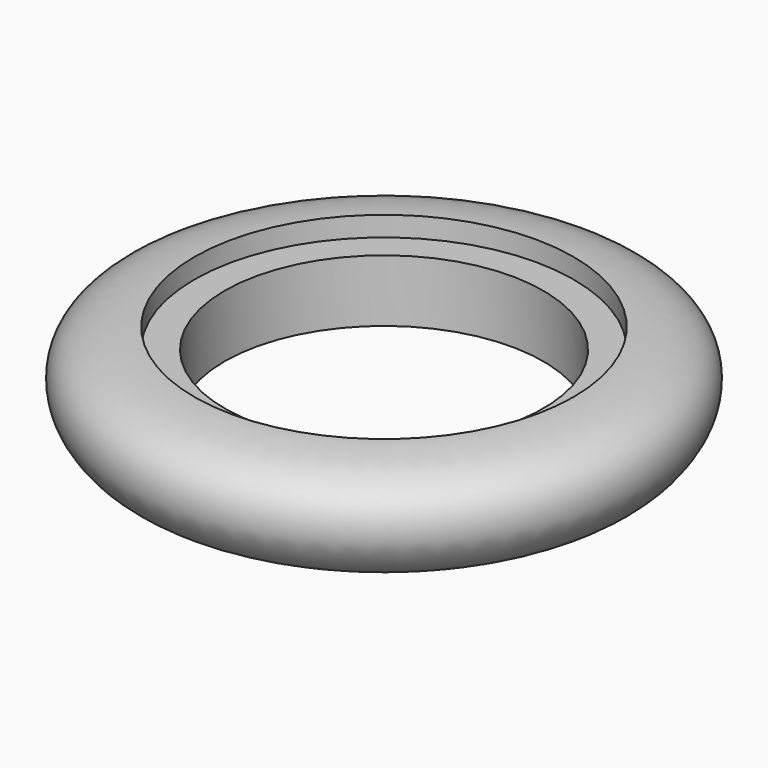
from build123d import *


with BuildPart() as f2:
    # F1 (on Front) → F2 (revolve)
    with BuildSketch(Plane.XZ):
        with BuildLine():
            Line((-50.8, 26.162), (-60.452, 26.162))
            Line((-60.452, 26.162), (-60.452, 32.512))
            add(Edge.make_bspline(
                [(-60.452, 32.512), (-64.1589996185, 32.6607128687), (-76.0509938427, 31.3255448455), (-84.2125294202, 24.0408724834), (-84.4160828114, 14.3979644967), (-80.9184533009, 7.8210827122), (-75.929038505, 2.7465876009), (-70.1350190249, 0), (-63.5, 0)],
                knots=[0, 0, 0, 0, 0.205674625, 0.3759024732, 0.5322220825, 0.6745215015, 0.8080592056, 1, 1, 1, 1], degree=3))
            Line((-63.5, 0), (-63.5, 6.35))
            Line((-63.5, 6.35), (-50.8, 6.35))
            Line((-50.8, 6.35), (-50.8, 26.162))
        make_face()
    revolve(axis=Axis((0, 0, 15.875), (0, 0, 1)))


solid = f2.part
